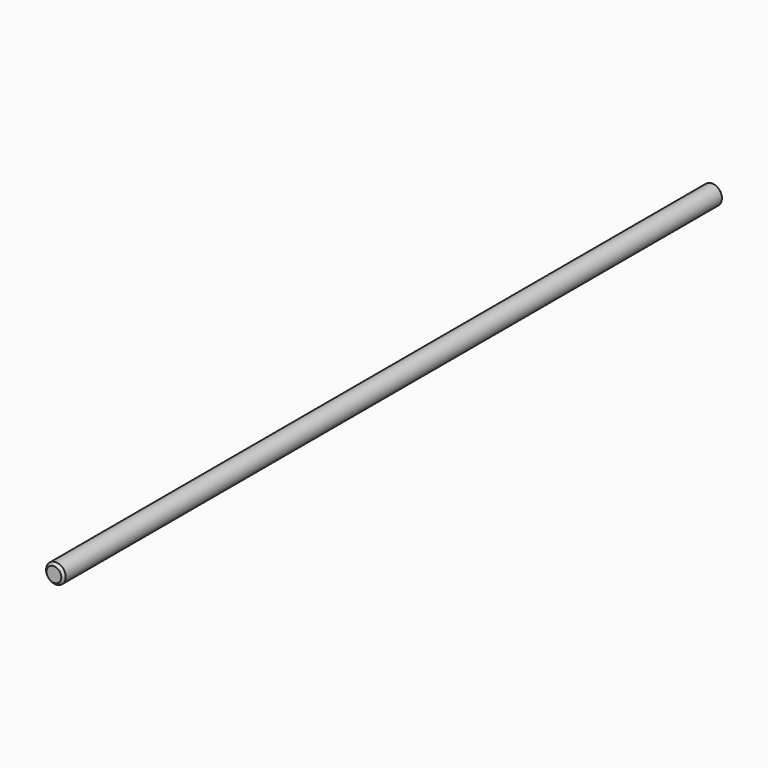
from build123d import *

# Parameters (mm, degrees)
SKETCH_R  = 2.5
PAD_DEPTH = 105


with BuildPart() as part:
    # Sketch → Pad (new body, symmetric)
    with BuildSketch(Plane.XZ):
        Circle(SKETCH_R)
    extrude(amount=PAD_DEPTH, both=True)

    # Sketch001 → Groove (revolve, cut)
    with BuildSketch(Plane.YZ):
        Polygon((-105, 4.5), (105, 4.5), (105, 1.875), (104.375, 2.5), (-104.375, 2.5), (-105, 1.875), align=None)
    revolve(axis=Axis((0, 0, 0), (0, 1, 0)), mode=Mode.SUBTRACT)


solid = part.part
